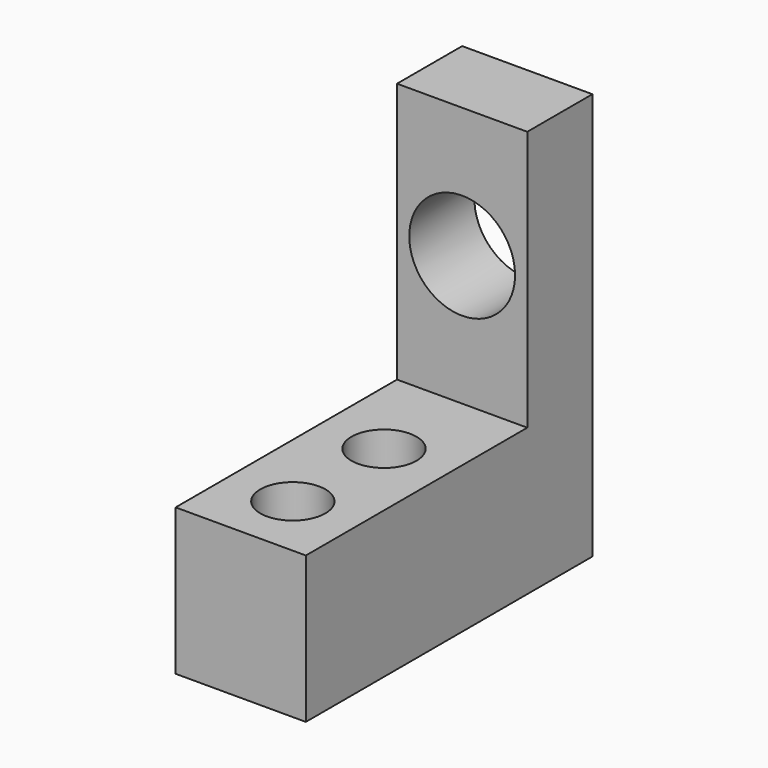
from build123d import *

# Parameters (mm, degrees)
CYLINDER084_R     = 2
CYLINDER084_DEPTH = 10
CYLINDER083_R     = 3.25
CYLINDER083_DEPTH = 10
CYLINDER082_R     = 2
CYLINDER082_DEPTH = 10
BOX069_W          = 8.5
BOX069_H          = 22
BOX069_DEPTH      = 25
BOX068_W          = 8
BOX068_H          = 22
BOX068_DEPTH      = 25


with BuildPart() as cylinder084:
    # Cylinder084 → Cylinder084 (new body)
    with BuildSketch(Plane(origin=(335, 287, 0), x_dir=(1, 0, 0), z_dir=(0, 0, 1))):
        Circle(CYLINDER084_R)
    extrude(amount=CYLINDER084_DEPTH)


with BuildPart() as cylinder083:
    # Cylinder083 → Cylinder083 (new body)
    with BuildSketch(Plane(origin=(335, 305, 17), x_dir=(1, 0, 0), z_dir=(0, -1, 0))):
        Circle(CYLINDER083_R)
    extrude(amount=CYLINDER083_DEPTH)


with BuildPart() as fusion049:
    # Cylinder082 → Cylinder082 (new body)
    with BuildSketch(Plane(origin=(335, 294, 0), x_dir=(1, 0, 0), z_dir=(0, 0, 1))):
        Circle(CYLINDER082_R)
    extrude(amount=CYLINDER082_DEPTH)

    # Fusion049: union Cylinder083
    add(cylinder083.part)


with BuildPart() as cube020:
    # Box069 → Box069 (new body)
    with BuildSketch(Plane(origin=(331, 278, 9), x_dir=(1, 0, 0), z_dir=(0, 0, 1))):
        with Locations((4.25, 11)):
            Rectangle(BOX069_W, BOX069_H)
    extrude(amount=BOX069_DEPTH)


with BuildPart() as antennaholder:
    # Box068 → Box068 (new body)
    with BuildSketch(Plane(origin=(331, 283, 0), x_dir=(1, 0, 0), z_dir=(0, 0, 1))):
        with Locations((4, 11)):
            Rectangle(BOX068_W, BOX068_H)
    extrude(amount=BOX068_DEPTH)

    # Cut061: cut Cube020
    add(cube020.part, mode=Mode.SUBTRACT)

    # Cut062: cut Fusion049
    add(fusion049.part, mode=Mode.SUBTRACT)

    # Cut063: cut Cylinder084
    add(cylinder084.part, mode=Mode.SUBTRACT)


solid = antennaholder.part
